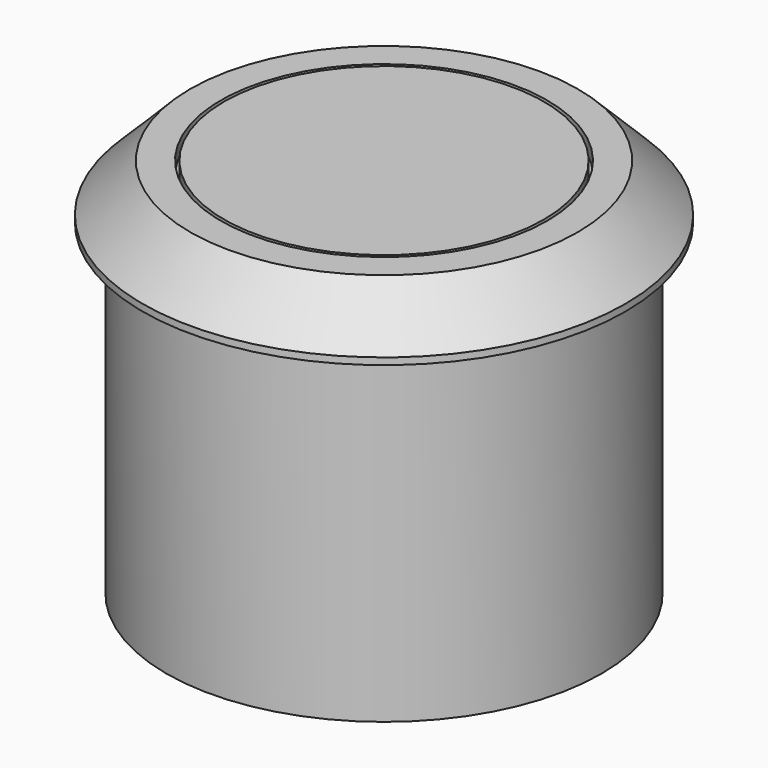
from build123d import *

# Parameters (mm, degrees)
F0_R     = 8
F1_DEPTH = 12
F2_R     = 8.875
F2_R_2   = 8
F3_DEPTH = 2
F4_SIZE  = 1.75
F5_R     = 6
F5_R_2   = 5.875
F6_DEPTH = 0.5


with BuildPart() as f1:
    # F0 (on Top) → F1 (new body)
    with BuildSketch(Plane.XY):
        Circle(F0_R)
    extrude(amount=F1_DEPTH)

    # F2 (on face) → F3 (join)
    with BuildSketch(Plane.XY.offset(12)):
        Circle(F2_R)
        Circle(F2_R_2, mode=Mode.SUBTRACT)
        Circle(F2_R_2)
    extrude(amount=F3_DEPTH)

    # F4
    f4_edges = [f1.edges().sort_by_distance(p)[0] for p in [
        (-8.875, 0, 14),
    ]]
    chamfer(f4_edges, length=F4_SIZE)

    # F5 (on face) → F6 (cut)
    with BuildSketch(Plane.XY.offset(14)):
        Circle(F5_R)
        Circle(F5_R_2, mode=Mode.SUBTRACT)
    extrude(amount=-F6_DEPTH, mode=Mode.SUBTRACT)


solid = f1.part
